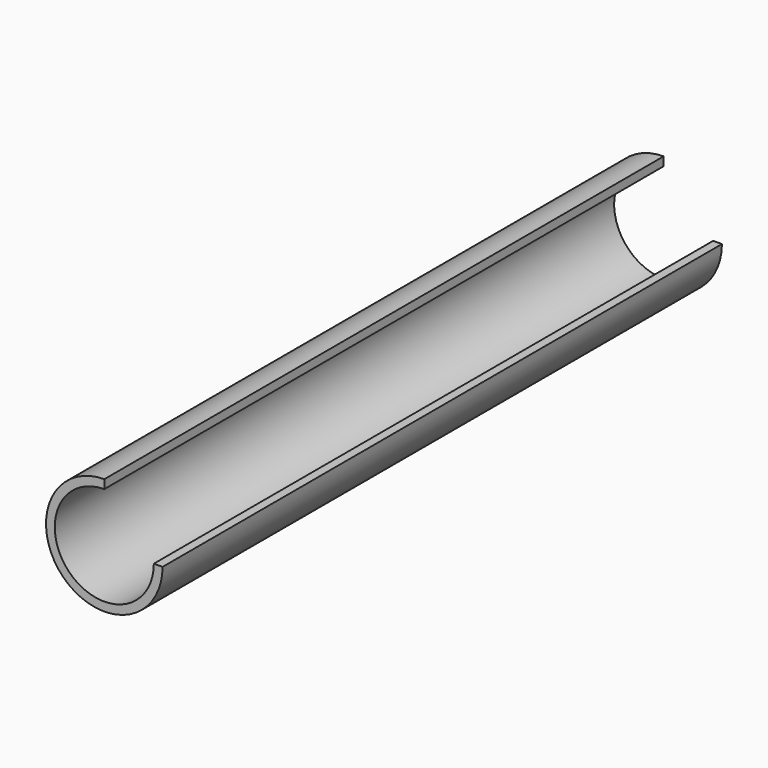
from build123d import *

# Parameters (mm, degrees)
F0_R     = 25.4
F1_DEPTH = 152.4
F3_DEPTH = 304.801
F4_R     = 21.59
F5_DEPTH = 304.801


with BuildPart() as f1:
    # F0 (on Front) → F1 (new body, symmetric)
    with BuildSketch(Plane.XZ):
        Circle(F0_R)
    extrude(amount=F1_DEPTH, both=True)

    # F2 (on face) → F3 (cut, through all)
    with BuildSketch(Plane.XZ.offset(152.4)):
        with BuildLine():
            Line((0, 25.4), (0, 0))
            Line((0, 0), (25.4, 0))
            ThreePointArc((25.4, 0), (17.960512, 17.960512), (0, 25.4))
        make_face()
    extrude(amount=-F3_DEPTH, mode=Mode.SUBTRACT)

    # F4 (on face) → F5 (cut, through all)
    with BuildSketch(Plane.XZ.offset(152.4)):
        Circle(F4_R)
    extrude(amount=-F5_DEPTH, mode=Mode.SUBTRACT)


solid = f1.part
